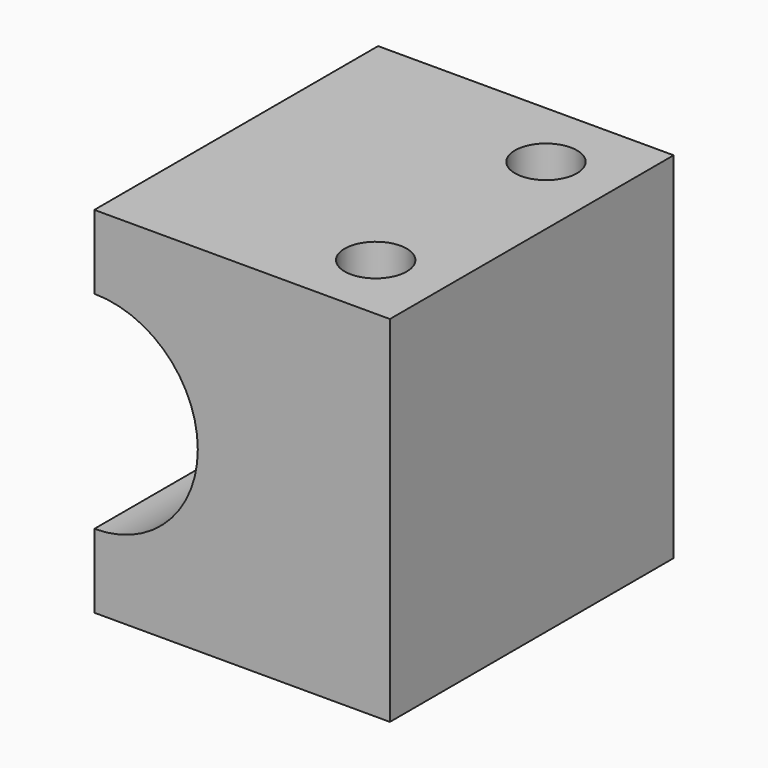
from build123d import *

# Parameters (mm, degrees)
F1_DEPTH = 30
F3_D     = 10.5
F4_D     = 10.5
F6_D     = 8
F6_DEPTH = 20
F6_TIP   = 2.4034424761


with BuildPart() as f1:
    # F0 (on Front) → F1 (new body, symmetric)
    with BuildSketch(Plane.XZ):
        with BuildLine():
            Line((-25, -17.5), (-25, -30))
            Line((-25, -30), (25, -30))
            Line((25, -30), (25, 30))
            Line((25, 30), (-25, 30))
            Line((-25, 30), (-25, 17.5))
            ThreePointArc((-25, 17.5), (-7.5, 0), (-25, -17.5))
        make_face()
    extrude(amount=F1_DEPTH, both=True)

    # F3 (through all)
    with Locations(Plane.XY.offset(30)):
        with Locations((13, 18)):
            Hole(F3_D / 2)

    # F4 (through all)
    with Locations(Plane.XY.offset(30)):
        with Locations((13, -18)):
            Hole(F4_D / 2)

    # F6
    with Locations(Plane(origin=(-25, 0, 0), x_dir=(0, -1, 0), z_dir=(-1, 0, 0))):
        with Locations((18, 23.75), (-18, 23.75), (-18, -24), (18, -24)):
            Hole(F6_D / 2, depth=F6_DEPTH)
            with Locations((0, 0, -(F6_DEPTH + F6_TIP / 2))):  # 118° drill point
                Cone(0, F6_D / 2, F6_TIP, mode=Mode.SUBTRACT)


solid = f1.part
